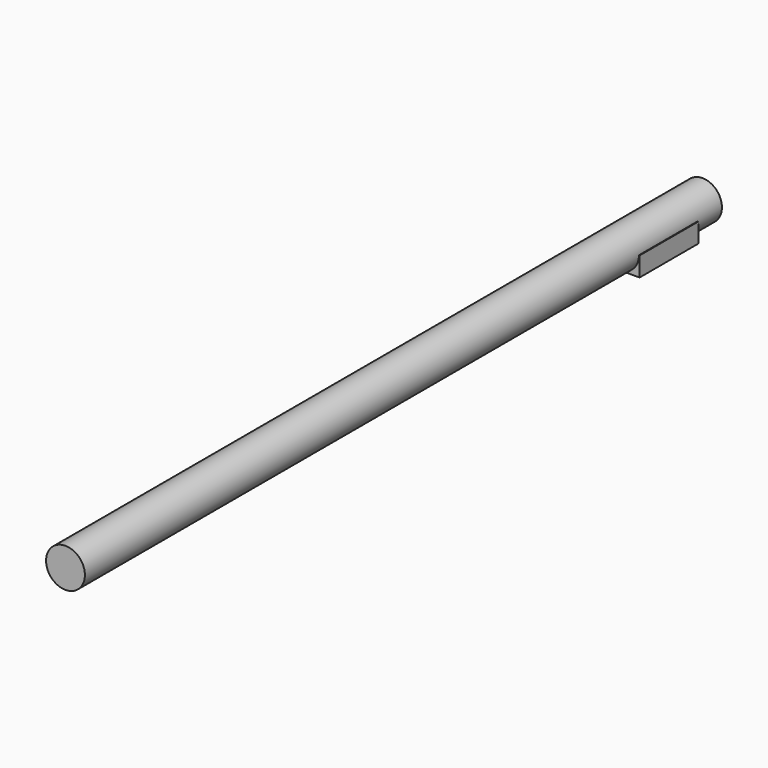
from build123d import *

# Parameters (mm, degrees)
F4_R     = 5
F0_DEPTH = 205
F1_W     = 10.6594
F1_H     = 18.948621
F2_DEPTH = 5
F3_W     = 4.417351
F3_H     = 11.700945
F5_DEPTH = 0.1


with BuildPart() as f0:
    # F4 (on Front) → F0 (new body)
    with BuildSketch(Plane.XZ):
        Circle(F4_R)
    extrude(amount=F0_DEPTH)


with BuildPart() as f2:
    # F1 (on Top) → F2 (new body)
    with BuildSketch(Plane.XY):
        with Locations((-0.156038, -17.23652)):
            Rectangle(F1_W, F1_H)
    extrude(amount=-F2_DEPTH)


with BuildPart() as f5:
    # F3 (on face) → F5 (new body)
    with BuildSketch(Plane(origin=(0, 0, -5), x_dir=(1, 0, 0), z_dir=(0, 0, -1))):
        with Locations((-0.160421, 17.296107)):
            Rectangle(F3_W, F3_H)
    extrude(amount=F5_DEPTH)


solid = Compound([f0.part, f2.part, f5.part])
